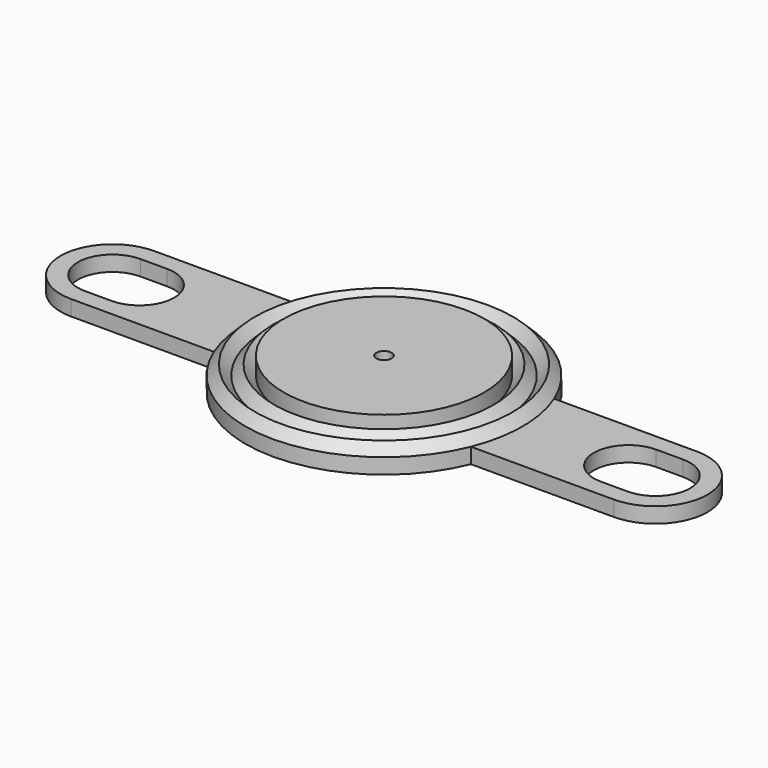
from build123d import *

# Parameters (mm, degrees)
F3_START = -4.5
F3_DEPTH = 4


with BuildPart() as f1:
    # F0 (on Right) → F1 (revolve)
    with BuildSketch(Plane.YZ):
        Polygon((26, 0), (2, 0), (2, -2), (0, -2), (0, -14), (10, -14), (10, -12.5), (18.5, -12.5), (18.5, -6), (21, -8.5), (23.5, -6), (26, -8.5), (28.5, -6), (31, -8.5), (33.5, -6), (36, -8.5), (36, -4.5), (33.5, -2), (31, -4.5), (28.5, -2), (26, -4.5), align=None)
        with BuildLine():
            Line((10, -14), (0, -14))
            Line((0, -14), (0, -17))
            ThreePointArc((0, -17), (5.2201532545, -16.2338441815), (10, -14))
        make_face()
    revolve(axis=Axis((0, 0, -6.3047250733), (0, 0, -1)))

    # F2 (on face) → F3 (join)
    with BuildSketch(Plane.XY.offset(F3_START)):
        with BuildLine():
            ThreePointArc((-33.2049675533, -13.5), (-36, 0), (-33.2049675533, 13.5))
            Line((-33.2049675533, 13.5), (-70.5000009461, 13.5))
            ThreePointArc((-70.5000009461, 13.5), (-84, 0), (-70.5000009461, -13.5))
            Line((-70.5000009461, -13.5), (-33.2049675533, -13.5))
        make_face()
        with BuildLine():
            ThreePointArc((-70.5, -9), (-79.5, 0), (-70.5, 9))
            Line((-70.5, 9), (-63.5, 9))
            ThreePointArc((-63.5, 9), (-57.1360389693, 6.3639610307), (-54.5, 0))
            ThreePointArc((-54.5, 0), (-57.1360389693, -6.3639610307), (-63.5, -9))
            Line((-63.5, -9), (-70.5, -9))
        make_face(mode=Mode.SUBTRACT)
        with BuildLine():
            Line((33.2049675533, -13.5), (70.5000009461, -13.5))
            ThreePointArc((70.5000009461, -13.5), (84, 0), (70.5000009461, 13.5))
            Line((70.5000009461, 13.5), (33.2049675533, 13.5))
            ThreePointArc((33.2049675533, 13.5), (36, 0), (33.2049675533, -13.5))
        make_face()
        with BuildLine():
            Line((63.5, 9), (70.5, 9))
            ThreePointArc((70.5, 9), (76.8639610307, 6.3639610307), (79.5, 0))
            ThreePointArc((79.5, 0), (76.8639610307, -6.3639610307), (70.5, -9))
            Line((70.5, -9), (63.5, -9))
            ThreePointArc((63.5, -9), (54.5, 0), (63.5, 9))
        make_face(mode=Mode.SUBTRACT)
    extrude(amount=-F3_DEPTH)


solid = f1.part
